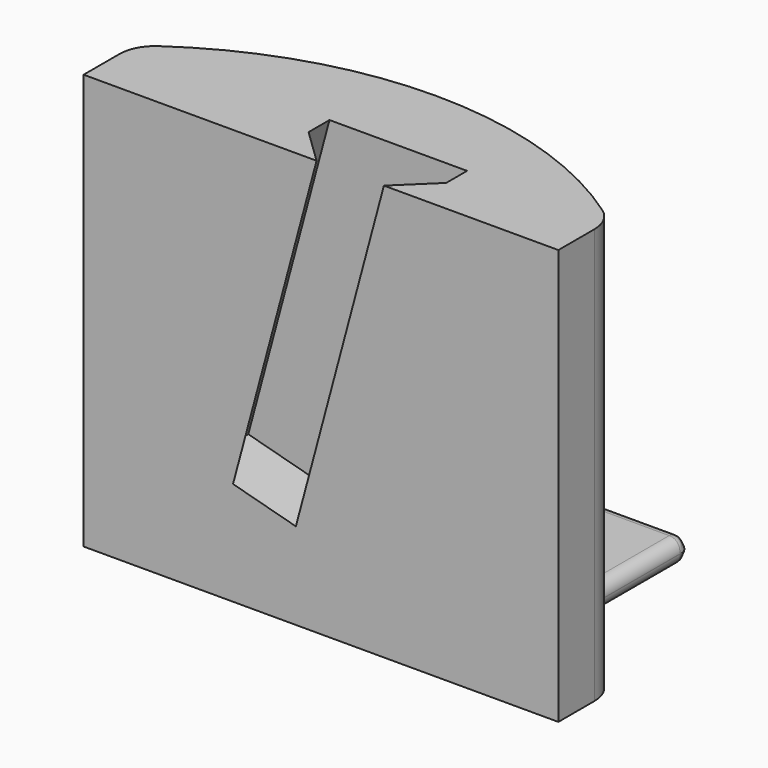
from build123d import *

# Parameters (mm, degrees)
PAD_DEPTH    = 35
POCKET_DEPTH = 30
SKETCH003_W  = 25
SKETCH003_H  = 15
PAD001_DEPTH = 2
FILLET_R     = 0.99
FILLET001_R  = 0.96
FILLET002_R  = 3


with BuildPart() as part:
    # Sketch → Pad (new body)
    with BuildSketch(Plane.XY):
        with BuildLine():
            ThreePointArc((20, 0), (0, 6.835898), (-20, 0))
            Line((-20, -5.3), (-20, 0))
            Line((20, -5.3), (-20, -5.3))
            Line((20, 0), (20, -5.3))
        make_face()
    extrude(amount=PAD_DEPTH)

    # Sketch002 → Pocket (cut)
    with BuildSketch(Plane(origin=(3, 0, 37), x_dir=(0.965926, 0, -0.258819), z_dir=(0.258819, 0, 0.965926))):
        Polygon((-5.6, -0.240433), (5.6, -0.240433), (5.6, -2.440433), (2.7, -5.340433), (-2.7, -5.340433), (-5.6, -2.440433), align=None)
    extrude(amount=-POCKET_DEPTH, mode=Mode.SUBTRACT)

    # Sketch003 (on Face4 of Pocket) → Pad001 (join)
    with BuildSketch(Plane(origin=(0, 0, 0), x_dir=(1, 0, 0), z_dir=(0, 0, -1))):
        with Locations((0, -10.470599)):
            Rectangle(SKETCH003_W, SKETCH003_H)
    extrude(amount=-PAD001_DEPTH)

    # Fillet
    fillet_edges = [part.edges().sort_by_distance(p)[0] for p in [
        (-12.5, 11.160507, 2),
        (0, 17.970599, 2),
        (12.5, 11.160507, 2),
        (-12.5, 11.160507, 0),
        (0, 17.970599, 0),
        (12.5, 11.160507, 0),
    ]]
    fillet(fillet_edges, radius=FILLET_R)

    # Fillet001
    fillet001_edges = [part.edges().sort_by_distance(p)[0] for p in [
        (-12.149588, 17.620187, 1.765663),
        (-12.149588, 17.620187, 0.234337),
        (12.149588, 17.620187, 0.234337),
        (12.149588, 17.620187, 1.765663),
    ]]
    fillet(fillet001_edges, radius=FILLET001_R)

    # Fillet002
    fillet002_edges = [part.edges().sort_by_distance(p)[0] for p in [
        (-20, 0, 17.5),
        (20, 0, 17.5),
    ]]
    fillet(fillet002_edges, radius=FILLET002_R)


solid = part.part
